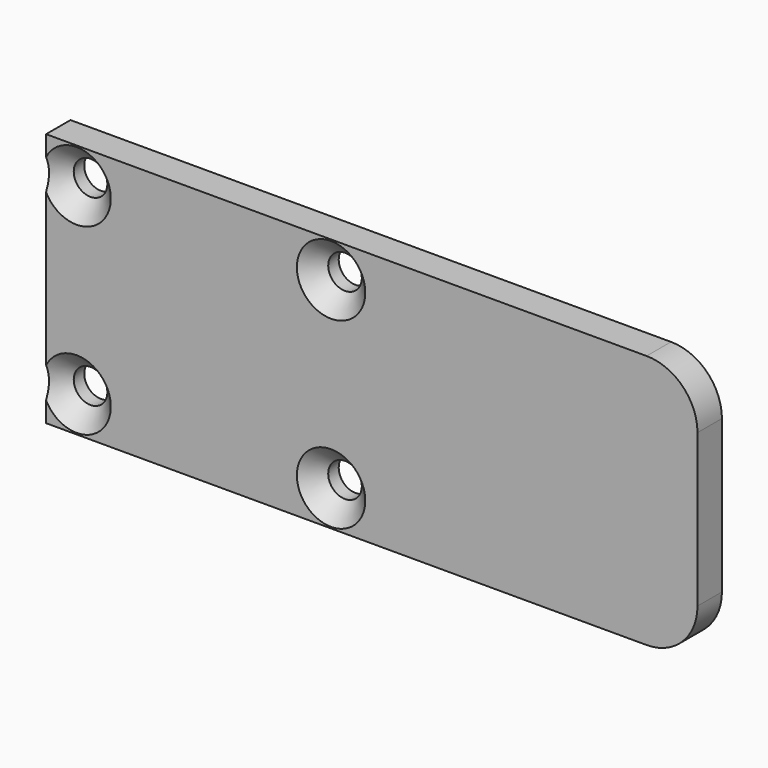
from build123d import *

# Parameters (mm, degrees)
F0_W           = 64
F0_H           = 25
F1_DEPTH       = 3
F3_D           = 3.3
F3_CSINK_D     = 6.72
F3_CSINK_ANGLE = 90
F4_R           = 5


with BuildPart() as f1:
    # F0 (on Front) → F1 (new body)
    with BuildSketch(Plane.XZ):
        with Locations((32, 12.5)):
            Rectangle(F0_W, F0_H)
    extrude(amount=F1_DEPTH)

    # F3 (through all)
    with Locations(Plane.XZ.offset(3)):
        with Locations((3, 21.5), (28, 21.5), (28, 3.5), (3, 3.5)):
            CounterSinkHole(F3_D / 2, F3_CSINK_D / 2, counter_sink_angle=F3_CSINK_ANGLE)

    # F4
    f4_edges = [f1.edges().sort_by_distance(p)[0] for p in [
        (64, -1.5, 0),
        (64, -1.5, 25),
    ]]
    fillet(f4_edges, radius=F4_R)


solid = f1.part
